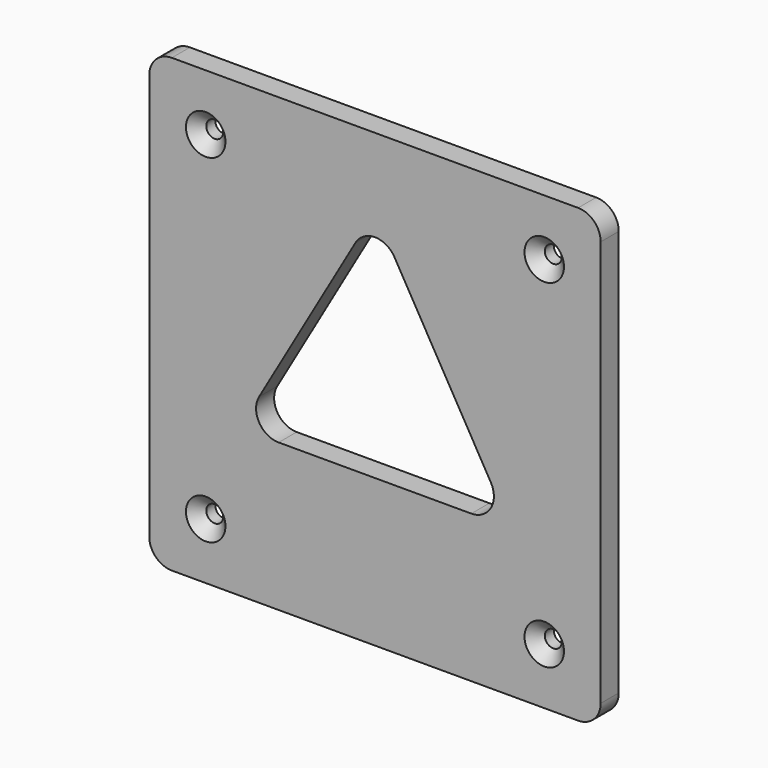
from build123d import *

# Parameters (mm, degrees)
F0_R     = 2.38125
F1_DEPTH = 3.175
F2_SIZE  = 3.175


with BuildPart() as f1:
    # F0 (on Front) → F1 (new body, symmetric)
    with BuildSketch(Plane.XZ):
        with BuildLine():
            Line((57.15, 63.5), (-57.15, 63.5))
            ThreePointArc((-57.15, 63.5), (-61.640128, 61.640128), (-63.5, 57.15))
            Line((-63.5, 57.15), (-63.5, -57.15))
            ThreePointArc((-63.5, -57.15), (-61.640128, -61.640128), (-57.15, -63.5))
            Line((-57.15, -63.5), (57.15, -63.5))
            ThreePointArc((57.15, -63.5), (61.640128, -61.640128), (63.5, -57.15))
            Line((63.5, -57.15), (63.5, 57.15))
            ThreePointArc((63.5, 57.15), (61.640128, 61.640128), (57.15, 63.5))
        make_face()
        with Locations((-47.625, -47.625)):
            Circle(F0_R, mode=Mode.SUBTRACT)
        with Locations((47.625, -47.625)):
            Circle(F0_R, mode=Mode.SUBTRACT)
        with Locations((-47.625, 47.625)):
            Circle(F0_R, mode=Mode.SUBTRACT)
        with BuildLine():
            Line((-32.600739, -12.472045), (-5.499261, 34.469091))
            ThreePointArc((-5.499261, 34.469091), (0, 37.644091), (5.499261, 34.469091))
            Line((5.499261, 34.469091), (32.600739, -12.472045))
            ThreePointArc((32.600739, -12.472045), (32.600739, -18.822045), (27.101477, -21.997045))
            Line((27.101477, -21.997045), (-27.101477, -21.997045))
            ThreePointArc((-27.101477, -21.997045), (-32.600739, -18.822045), (-32.600739, -12.472045))
        make_face(mode=Mode.SUBTRACT)
        with Locations((47.625, 47.625)):
            Circle(F0_R, mode=Mode.SUBTRACT)
    extrude(amount=F1_DEPTH, both=True)

    # F2
    f2_edges = [f1.edges().sort_by_distance(p)[0] for p in [
        (-50.00625, -3.175, 47.625),
        (-50.00625, -3.175, -47.625),
        (45.24375, -3.175, -47.625),
        (45.24375, -3.175, 47.625),
    ]]
    chamfer(f2_edges, length=F2_SIZE)


solid = f1.part
